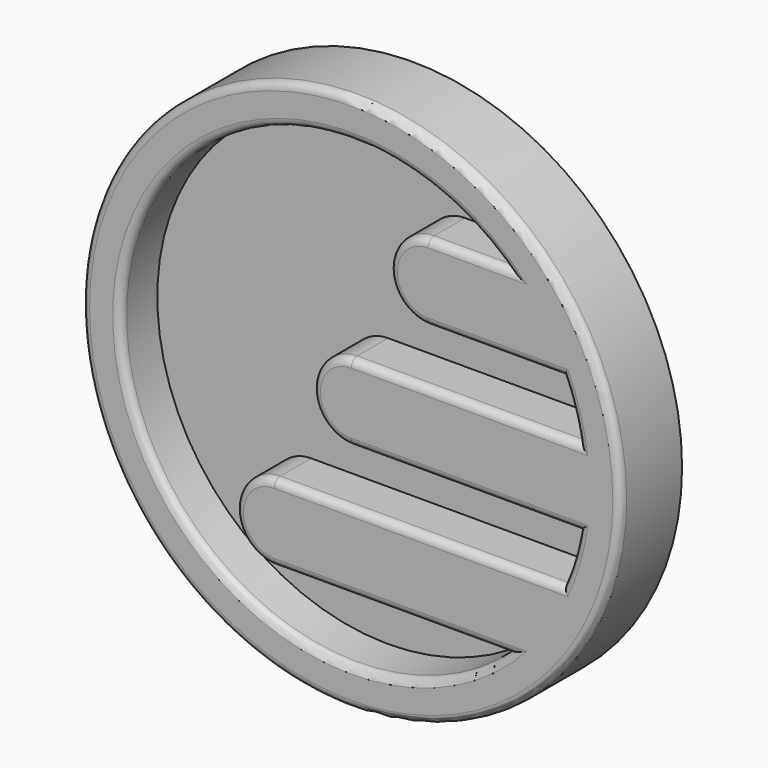
from build123d import *

# Parameters (mm, degrees)
F0_R     = 44.45
F1_DEPTH = 12.7
F2_R     = 44.45
F3_DEPTH = 5.08
F4_R     = 1.27


with BuildPart() as f1:
    # F0 (on Front) → F1 (new body)
    with BuildSketch(Plane.XZ):
        Circle(F0_R)
        with BuildLine():
            ThreePointArc((25.903019, -27.94), (-38.1, 0), (25.903019, 27.94))
            Line((25.903019, 27.94), (12.7, 27.94))
            ThreePointArc((12.7, 27.94), (6.35, 21.59), (12.7, 15.24))
            Line((12.7, 15.24), (34.919227, 15.24))
            ThreePointArc((34.919227, 15.24), (36.514725, 10.875883), (37.567107, 6.35))
            Line((37.567107, 6.35), (0, 6.35))
            ThreePointArc((0, 6.35), (-6.35, 0), (0, -6.35))
            Line((0, -6.35), (37.567107, -6.35))
            ThreePointArc((37.567107, -6.35), (36.514725, -10.875883), (34.919227, -15.24))
            Line((34.919227, -15.24), (0, -15.24))
            Line((0, -15.24), (-12.7, -15.24))
            ThreePointArc((-12.7, -15.24), (-19.05, -21.59), (-12.7, -27.94))
            Line((-12.7, -27.94), (0, -27.94))
            Line((0, -27.94), (25.903019, -27.94))
        make_face(mode=Mode.SUBTRACT)
    extrude(amount=F1_DEPTH)

    # F2 (on Front) → F3 (join)
    with BuildSketch(Plane.XZ):
        Circle(F2_R)
    extrude(amount=F3_DEPTH)

    # F4
    f4_edges = [f1.edges().sort_by_distance(p)[0] for p in [
        (-44.45, -12.7, 0),
        (6.60151, -12.7, -27.94),
        (18.783553, -12.7, -6.35),
        (23.809613, -12.7, 15.24),
        (36.514725, -12.7, -10.875883),
        (36.514725, -12.7, 10.875883),
        (-38.1, -12.7, 0),
    ]]
    fillet(f4_edges, radius=F4_R)


solid = f1.part
